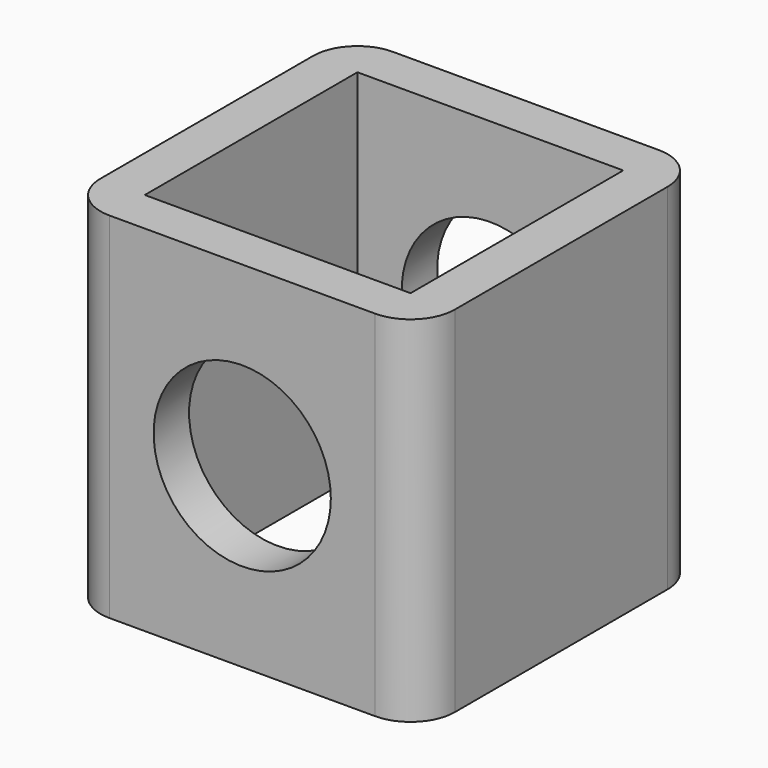
from build123d import *

# Parameters (mm, degrees)
F0_W     = 38.1
F0_H     = 38.1
F1_DEPTH = 50.8
F2_R     = 12.7
F3_DEPTH = 50.801


with BuildPart() as f1:
    # F0 (on Top) → F1 (new body)
    with BuildSketch(Plane.XY):
        with BuildLine():
            ThreePointArc((0, 6.35), (1.859872, 1.859872), (6.35, 0))
            Line((6.35, 0), (44.45, 0))
            ThreePointArc((44.45, 0), (48.940128, 1.859872), (50.8, 6.35))
            Line((50.8, 6.35), (50.8, 44.45))
            ThreePointArc((50.8, 44.45), (48.940128, 48.940128), (44.45, 50.8))
            Line((44.45, 50.8), (6.35, 50.8))
            ThreePointArc((6.35, 50.8), (1.859872, 48.940128), (0, 44.45))
            Line((0, 44.45), (0, 6.35))
        make_face()
        with Locations((25.4, 25.4)):
            Rectangle(F0_W, F0_H, mode=Mode.SUBTRACT)
    extrude(amount=F1_DEPTH)

    # F2 (on face) → F3 (cut, through all)
    with BuildSketch(Plane.XZ):
        with Locations((25.4, 25.4)):
            Circle(F2_R)
    extrude(amount=-F3_DEPTH, mode=Mode.SUBTRACT)


solid = f1.part
